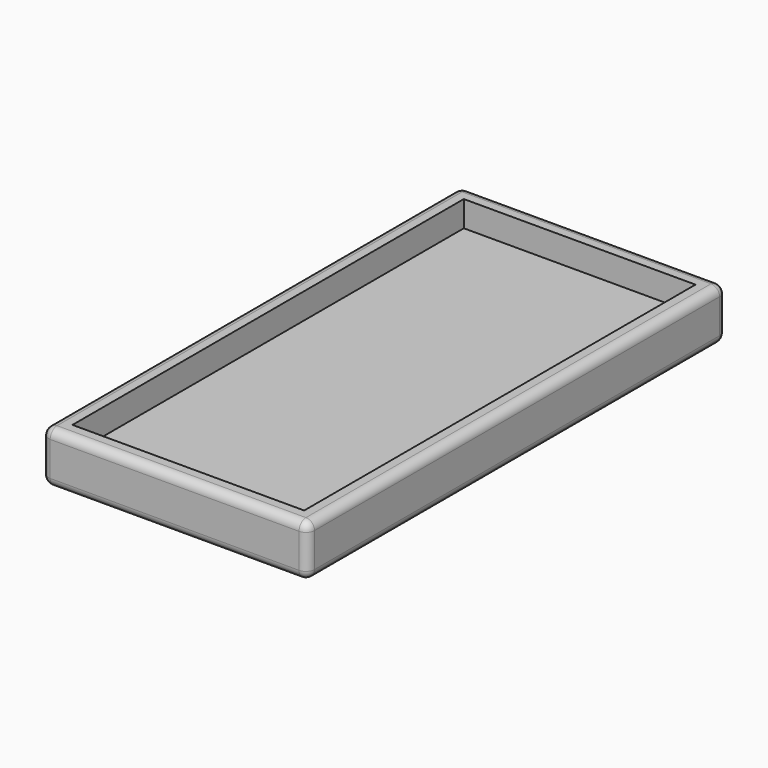
from build123d import *

# Parameters (mm, degrees)
F0_W     = 15.5
F0_H     = 30.5
F0_W_2   = 13.5
F0_H_2   = 28.5
F1_DEPTH = 3
F2_DEPTH = 1.5
F3_R     = 0.5


with BuildPart() as f1:
    # F0 (on Top) → F1 (new body)
    with BuildSketch(Plane.XY):
        with Locations((-1.661532, 2.806597)):
            Rectangle(F0_W, F0_H)
        with Locations((-1.661532, 2.806597)):
            Rectangle(F0_W_2, F0_H_2, mode=Mode.SUBTRACT)
    extrude(amount=F1_DEPTH)

    # F0 (on Top) → F2 (join)
    with BuildSketch(Plane.XY):
        with Locations((-1.661532, 2.806597)):
            Rectangle(F0_W_2, F0_H_2)
    extrude(amount=F2_DEPTH)

    # F3
    f3_edges = [f1.edges().sort_by_distance(p)[0] for p in [
        (6.088468, -12.443403, 1.5),
        (6.088468, 18.056597, 1.5),
        (6.088468, 2.806597, 0),
        (6.088468, 2.806597, 3),
        (-9.411532, -12.443403, 1.5),
        (-1.661532, -12.443403, 0),
        (-1.661532, -12.443403, 3),
        (-9.411532, 18.056597, 1.5),
        (-9.411532, 2.806597, 0),
        (-9.411532, 2.806597, 3),
        (-1.661532, 18.056597, 0),
        (-1.661532, 18.056597, 3),
    ]]
    fillet(f3_edges, radius=F3_R)


solid = f1.part
